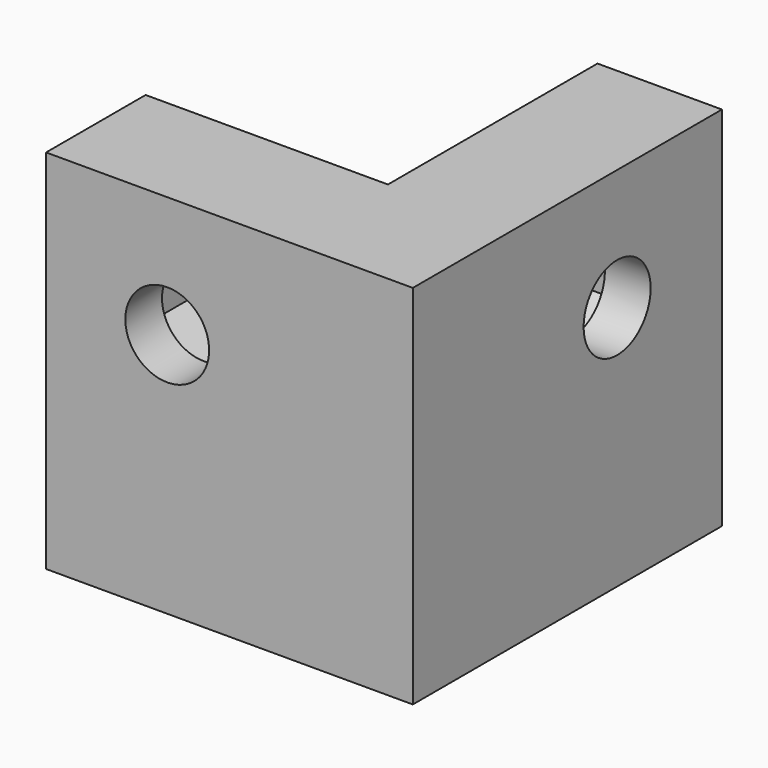
from build123d import *

# Parameters (mm, degrees)
F1_DEPTH  = 10
F2_R      = 1.6
F3_DEPTH  = 3
F4_DEPTH  = 25
F5_R      = 1.6
F6_DEPTH  = 3
F7_DEPTH  = 25
F8_W      = 9.25
F8_H      = 9.25
F9_DEPTH  = 4.75
F10_R     = 1.6
F11_DEPTH = 3
F12_DEPTH = 25


with BuildPart() as f1:
    # F0 (on Front) → F1 (new body)
    with BuildSketch(Plane.XZ):
        Polygon((-14, 0), (0, 0), (0, 14), (-4.75, 14), (-4.75, 4.75), (-14, 4.75), align=None)
    extrude(amount=F1_DEPTH)

    # F2 (on face) → F3 (cut)
    with BuildSketch(Plane(origin=(-4.75, 0, 0), x_dir=(0, -1, 0), z_dir=(-1, 0, 0))):
        Polygon((2, 11.1070508076), (2, 7.6429491924), (5, 5.9108983849), (8, 7.6429491924), (8, 11.1070508076), (5, 12.8391016151), align=None)
        with Locations((5, 9.375)):
            Circle(F2_R, mode=Mode.SUBTRACT)
    extrude(amount=-F3_DEPTH, mode=Mode.SUBTRACT)

    # F4 (cut): a face of the model
    f4_faces = [f1.faces().sort_by_distance(p)[0] for p in [
        (-4.75, -5, 9.375),
    ]]
    extrude(f4_faces, amount=-F4_DEPTH, mode=Mode.SUBTRACT)

    # F5 (on face) → F6 (cut)
    with BuildSketch(Plane.XY.offset(4.75)):
        Polygon((-11.1070508076, -8), (-7.6429491924, -8), (-5.9108983849, -5), (-7.6429491924, -2), (-11.1070508076, -2), (-12.8391016151, -5), align=None)
        with Locations((-9.375, -5)):
            Circle(F5_R, mode=Mode.SUBTRACT)
    extrude(amount=-F6_DEPTH, mode=Mode.SUBTRACT)

    # F7 (cut): a face of the model
    f7_faces = [f1.faces().sort_by_distance(p)[0] for p in [
        (-9.375, -5, 4.75),
    ]]
    extrude(f7_faces, amount=-F7_DEPTH, mode=Mode.SUBTRACT)

    # F8 (on face) → F9 (join)
    with BuildSketch(Plane.XZ.offset(10)):
        with Locations((-9.375, 9.375)):
            Rectangle(F8_W, F8_H)
        Polygon((-14, 0), (0, 0), (0, 14), (-4.75, 14), (-4.75, 4.75), (-14, 4.75), align=None)
    extrude(amount=F9_DEPTH)

    # F10 (on face) → F11 (cut)
    with BuildSketch(Plane(origin=(0, -10, 0), x_dir=(-1, 0, 0), z_dir=(0, 1, 0))):
        Polygon((6.375, 11.1070508076), (6.375, 7.6429491924), (9.375, 5.9108983849), (12.375, 7.6429491924), (12.375, 11.1070508076), (9.375, 12.8391016151), align=None)
        with Locations((9.375, 9.375)):
            Circle(F10_R, mode=Mode.SUBTRACT)
    extrude(amount=-F11_DEPTH, mode=Mode.SUBTRACT)

    # F12 (cut): a face of the model
    f12_faces = [f1.faces().sort_by_distance(p)[0] for p in [
        (-9.375, -10, 9.375),
    ]]
    extrude(f12_faces, amount=-F12_DEPTH, mode=Mode.SUBTRACT)


solid = f1.part
